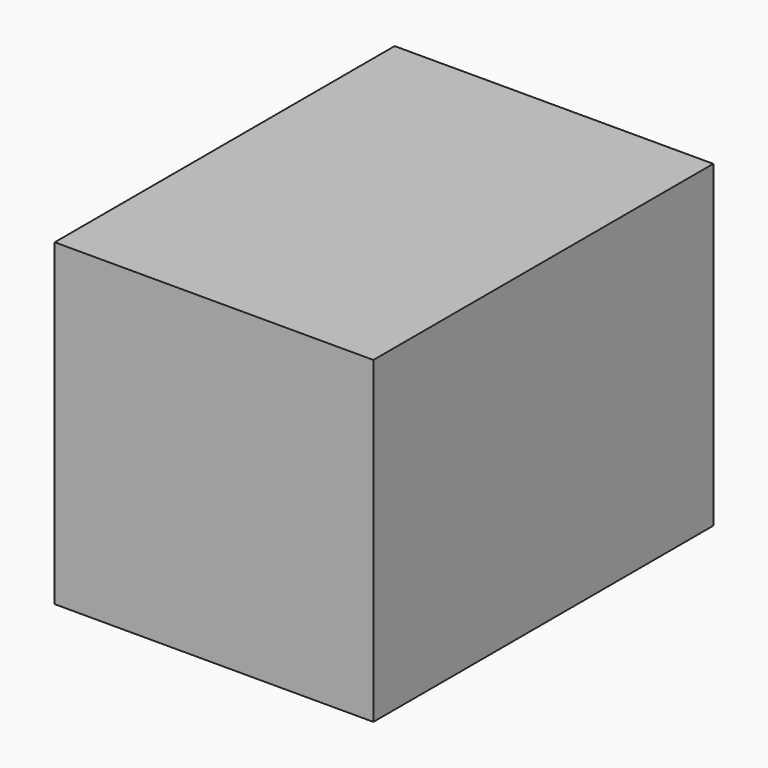
from build123d import *

# Parameters (mm, degrees)
SKETCH_W  = 50.8
SKETCH_H  = 38.1
PAD_DEPTH = 38.1


with BuildPart() as part:
    # Sketch → Pad (new body)
    with BuildSketch(Plane.YZ):
        with Locations((25.4, 19.05)):
            Rectangle(SKETCH_W, SKETCH_H)
    extrude(amount=PAD_DEPTH)


solid = part.part
